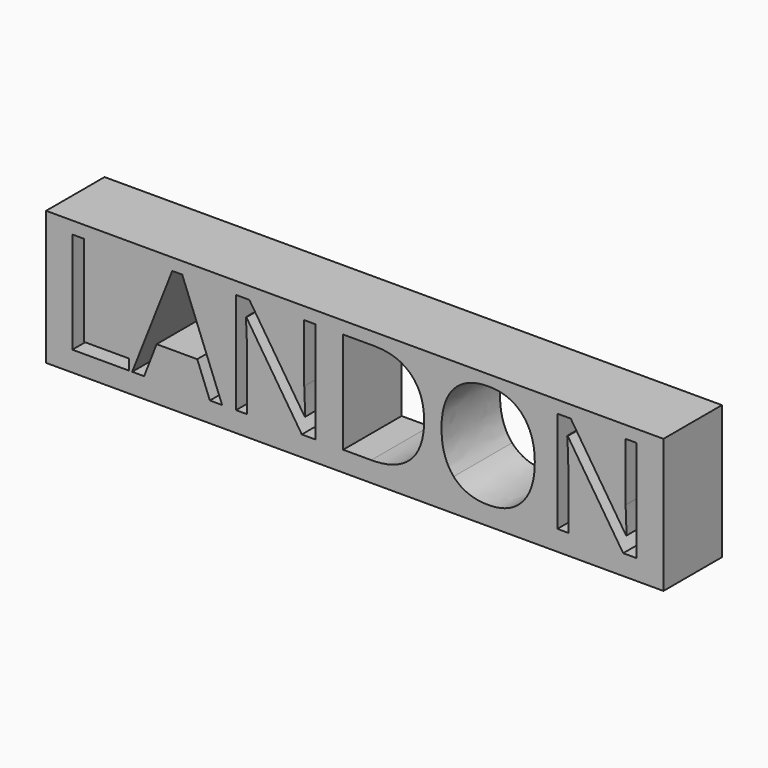
from build123d import *

# Parameters (mm, degrees)
F0_W     = 214.5938575268
F0_H     = 46.5465178713
F1_DEPTH = 25.4


with BuildPart() as f1:
    # F0 (on Front) → F1 (new body)
    with BuildSketch(Plane.XZ):
        with Locations((39.4191890955, 25.6276843138)):
            Rectangle(F0_W, F0_H)
        Polygon((-39.0857293959, 9.3650380149), (-58.7409636363, 9.3650380149), (-58.7409636363, 44.6240742319), (-54.6432292894, 44.6240742319), (-54.6432292894, 13.0769216701), (-39.0857293959, 13.0769216701), align=None, mode=Mode.SUBTRACT)
        Polygon((-6.697422326, 9.3650380149), (-10.9417799358, 9.3650380149), (-15.3327608085, 20.5778591187), (-29.4626131423, 20.5778591187), (-33.7995749182, 9.3650380149), (-37.951328362, 9.3650380149), (-24.0144013741, 44.7706974947), (-20.5648961894, 44.7706974947), align=None, mode=Mode.SUBTRACT)
        with BuildLine():
            Line((25.6908847439, 44.6240742319), (25.6908847439, 9.3650380149))
            Line((25.6908847439, 9.3650380149), (21.0143743593, 9.3650380149))
            Line((21.0143743593, 9.3650380149), (1.7449908106, 38.9520690624))
            Line((1.7449908106, 38.9520690624), (1.5520654647, 38.9520690624))
            add(Edge.make_bspline(
                [(1.5520654647, 38.9520690624), (1.9379161565, 33.743084723), (1.9379161565, 29.4061229472)],
                knots=[0, 0, 0, 1, 1, 1], degree=2))
            Line((1.9379161565, 29.4061229472), (1.9379161565, 9.3650380149))
            Line((1.9379161565, 9.3650380149), (-1.851137637, 9.3650380149))
            Line((-1.851137637, 9.3650380149), (-1.851137637, 44.6240742319))
            Line((-1.851137637, 44.6240742319), (2.7790706647, 44.6240742319))
            Line((2.7790706647, 44.6240742319), (22.0021521303, 15.152798392))
            Line((22.0021521303, 15.152798392), (22.1950774762, 15.152798392))
            add(Edge.make_bspline(
                [(22.1950774762, 15.152798392), (22.1487753932, 15.8010275542), (21.9790010888, 19.3354198911)],
                knots=[0, 0, 0, 1, 1, 1], degree=2))
            add(Edge.make_bspline(
                [(21.9790010888, 19.3354198911), (21.8092267844, 22.869812228), (21.8555288674, 24.3900639537)],
                knots=[0, 0, 0, 1, 1, 1], degree=2))
            Line((21.8555288674, 24.3900639537), (21.8555288674, 44.6240742319))
            Line((21.8555288674, 44.6240742319), (25.6908847439, 44.6240742319))
        make_face(mode=Mode.SUBTRACT)
        with BuildLine():
            add(Edge.make_bspline(
                [(58.9705069119, 40.0671775617), (63.5274035821, 35.5102808915), (63.5274035821, 27.3302462253)],
                knots=[0, 0, 0, 1, 1, 1], degree=2))
            add(Edge.make_bspline(
                [(63.5274035821, 27.3302462253), (63.5274035821, 18.6023035767), (58.7891570867, 13.9836707958)],
                knots=[0, 0, 0, 1, 1, 1], degree=2))
            add(Edge.make_bspline(
                [(58.7891570867, 13.9836707958), (54.0509105914, 9.3650380149), (45.1531936384, 9.3650380149)],
                knots=[0, 0, 0, 1, 1, 1], degree=2))
            Line((45.1531936384, 9.3650380149), (35.383454122, 9.3650380149))
            Line((35.383454122, 9.3650380149), (35.383454122, 44.6240742319))
            Line((35.383454122, 44.6240742319), (46.1872734925, 44.6240742319))
            add(Edge.make_bspline(
                [(46.1872734925, 44.6240742319), (54.4136102417, 44.6240742319), (58.9705069119, 40.0671775617)],
                knots=[0, 0, 0, 1, 1, 1], degree=2))
        make_face(mode=Mode.SUBTRACT)
        with BuildLine():
            add(Edge.make_bspline(
                [(97.7292089034, 40.3565655805), (101.9967175548, 35.533431933), (101.9967175548, 27.0447167133)],
                knots=[0, 0, 0, 1, 1, 1], degree=2))
            add(Edge.make_bspline(
                [(101.9967175548, 27.0447167133), (101.9967175548, 18.5791525352), (97.7137748758, 13.7290093392)],
                knots=[0, 0, 0, 1, 1, 1], degree=2))
            add(Edge.make_bspline(
                [(97.7137748758, 13.7290093392), (93.4308321967, 8.8788661433), (85.8141395406, 8.8788661433)],
                knots=[0, 0, 0, 1, 1, 1], degree=2))
            add(Edge.make_bspline(
                [(85.8141395406, 8.8788661433), (78.02767258, 8.8788661433), (73.7948904909, 13.644122187)],
                knots=[0, 0, 0, 1, 1, 1], degree=2))
            add(Edge.make_bspline(
                [(73.7948904909, 13.644122187), (69.5621084018, 18.4093782308), (69.5621084018, 27.0910187964)],
                knots=[0, 0, 0, 1, 1, 1], degree=2))
            add(Edge.make_bspline(
                [(69.5621084018, 27.0910187964), (69.5621084018, 35.7032062374), (73.8064660117, 40.4414527327)],
                knots=[0, 0, 0, 1, 1, 1], degree=2))
            add(Edge.make_bspline(
                [(73.8064660117, 40.4414527327), (78.0508236215, 45.1796992281), (85.8604416236, 45.1796992281)],
                knots=[0, 0, 0, 1, 1, 1], degree=2))
            add(Edge.make_bspline(
                [(85.8604416236, 45.1796992281), (93.4617002521, 45.1796992281), (97.7292089034, 40.3565655805)],
                knots=[0, 0, 0, 1, 1, 1], degree=2))
        make_face(mode=Mode.SUBTRACT)
        with BuildLine():
            Line((137.3946600207, 44.6240742319), (137.3946600207, 9.3650380149))
            Line((137.3946600207, 9.3650380149), (132.7181496361, 9.3650380149))
            Line((132.7181496361, 9.3650380149), (113.4487660875, 38.9520690624))
            Line((113.4487660875, 38.9520690624), (113.2558407416, 38.9520690624))
            add(Edge.make_bspline(
                [(113.2558407416, 38.9520690624), (113.6416914334, 33.743084723), (113.6416914334, 29.4061229472)],
                knots=[0, 0, 0, 1, 1, 1], degree=2))
            Line((113.6416914334, 29.4061229472), (113.6416914334, 9.3650380149))
            Line((113.6416914334, 9.3650380149), (109.8526376399, 9.3650380149))
            Line((109.8526376399, 9.3650380149), (109.8526376399, 44.6240742319))
            Line((109.8526376399, 44.6240742319), (114.4828459415, 44.6240742319))
            Line((114.4828459415, 44.6240742319), (133.7059274071, 15.152798392))
            Line((133.7059274071, 15.152798392), (133.898852753, 15.152798392))
            add(Edge.make_bspline(
                [(133.898852753, 15.152798392), (133.85255067, 15.8010275542), (133.6827763656, 19.3354198911)],
                knots=[0, 0, 0, 1, 1, 1], degree=2))
            add(Edge.make_bspline(
                [(133.6827763656, 19.3354198911), (133.5130020612, 22.869812228), (133.5593041442, 24.3900639537)],
                knots=[0, 0, 0, 1, 1, 1], degree=2))
            Line((133.5593041442, 24.3900639537), (133.5593041442, 44.6240742319))
            Line((133.5593041442, 44.6240742319), (137.3946600207, 44.6240742319))
        make_face(mode=Mode.SUBTRACT)
    extrude(amount=F1_DEPTH)


solid = f1.part
